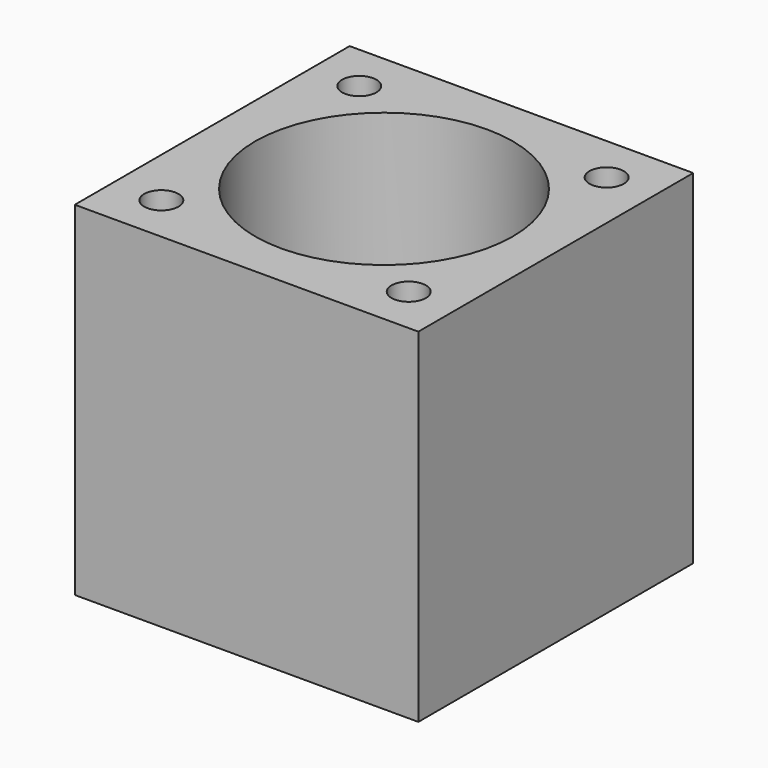
from build123d import *

# Parameters (mm, degrees)
F0_W     = 25.4
F0_H     = 25.4
F1_DEPTH = 25.4
F2_R     = 9.525
F3_DEPTH = 22.86
F4_R     = 7.116494
F5_DEPTH = 2.541
F6_R     = 1.27
F7_DEPTH = 25.401


with BuildPart() as f1:
    # F0 (on Top) → F1 (new body)
    with BuildSketch(Plane.XY):
        with Locations((12.7, 12.7)):
            Rectangle(F0_W, F0_H)
    extrude(amount=F1_DEPTH)

    # F2 (on face) → F3 (cut)
    with BuildSketch(Plane.XY.offset(25.4)):
        with Locations((12.7, 12.7)):
            Circle(F2_R)
    extrude(amount=-F3_DEPTH, mode=Mode.SUBTRACT)

    # F4 (on face) → F5 (cut, through all)
    with BuildSketch(Plane.XY.offset(2.54)):
        with Locations((12.7, 12.7)):
            Circle(F4_R)
    extrude(amount=-F5_DEPTH, mode=Mode.SUBTRACT)

    # F6 (on face) → F7 (cut, through all)
    with BuildSketch(Plane.XY.offset(25.4)):
        with Locations((21.844, 3.556)):
            Circle(F6_R)
        with Locations((21.844, 21.844)):
            Circle(F6_R)
        with Locations((3.556, 21.844)):
            Circle(F6_R)
        with Locations((3.556, 3.556)):
            Circle(F6_R)
    extrude(amount=-F7_DEPTH, mode=Mode.SUBTRACT)


solid = f1.part
